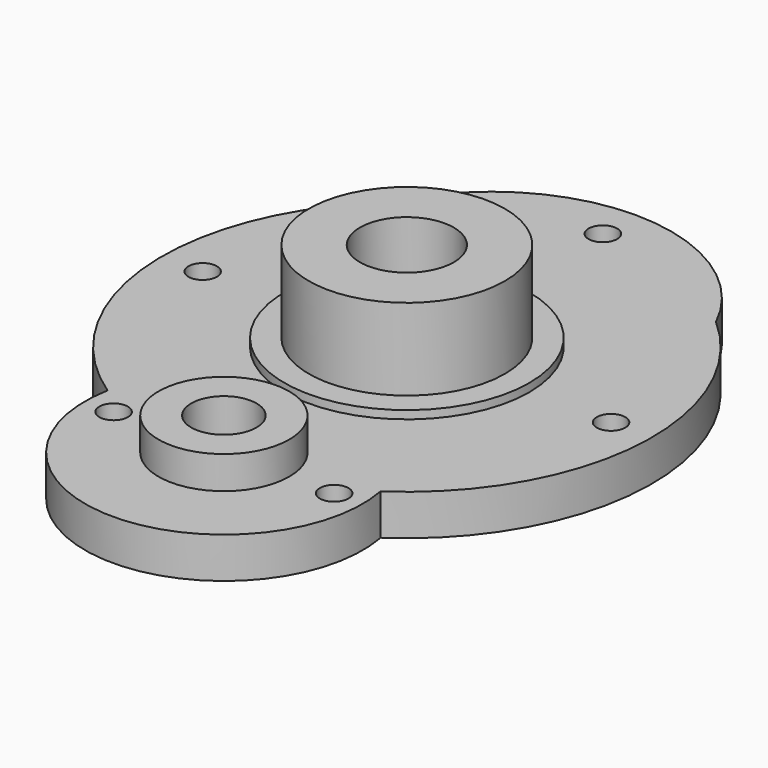
from build123d import *

# Parameters (mm, degrees)
F0_DEPTH  = 10
F17_R     = 30
F18_DEPTH = 12
F1_R      = 24
F2_DEPTH  = 20
F3_R      = 10
F4_DEPTH  = 25
F19_R     = 10
F5_DEPTH  = 30
F6_R      = 10
F7_DEPTH  = 30
F20_R     = 16
F8_DEPTH  = 8
F21_R     = 8
F9_DEPTH  = 25
F10_R     = 10
F11_DEPTH = 35
F12_R     = 11.5
F12_R_2   = 10
F13_DEPTH = 20
F14_R     = 3.5
F15_DEPTH = 10


with BuildPart() as f0:
    # F16 (on Top) → F0 (new body)
    with BuildSketch(Plane.XY):
        with BuildLine():
            ThreePointArc((39.686269666, 45), (0, 70), (-39.686269666, 45))
            ThreePointArc((-39.686269666, 45), (-59.8699875201, -3.9477328098), (-33.4338938071, -49.8214285714))
            ThreePointArc((-33.4338938071, -49.8214285714), (0, -90), (33.4338938071, -49.8214285714))
            ThreePointArc((33.4338938071, -49.8214285714), (59.8699875201, -3.9477328098), (39.686269666, 45))
        make_face()
    extrude(amount=F0_DEPTH)

    # F17 (on Top) → F18 (join)
    with BuildSketch(Plane.XY):
        Circle(F17_R)
    extrude(amount=F18_DEPTH)

    # F1 (on face) → F2 (join)
    with BuildSketch(Plane.XY.offset(12)):
        Circle(F1_R)
    extrude(amount=F2_DEPTH)

    # F3 (on face) → F4 (cut)
    with BuildSketch(Plane.XY.offset(32)):
        Circle(F3_R)
    extrude(amount=-F4_DEPTH, mode=Mode.SUBTRACT)

    # F19 (on face) → F5 (cut)
    with BuildSketch(Plane(origin=(0, 0, 0), x_dir=(1, 0, 0), z_dir=(0, 0, -1))):
        Circle(F19_R)
    extrude(amount=-F5_DEPTH, mode=Mode.SUBTRACT)

    # F6 (on face) → F7 (cut)
    with BuildSketch(Plane.XY.offset(32)):
        Circle(F6_R)
    extrude(amount=-F7_DEPTH, mode=Mode.SUBTRACT)

    # F20 (on face) → F8 (join)
    with BuildSketch(Plane.XY.offset(10)):
        with Locations((0, -56)):
            Circle(F20_R)
    extrude(amount=F8_DEPTH)

    # F21 (on face) → F9 (cut)
    with BuildSketch(Plane.XY.offset(18)):
        with Locations((0, -56)):
            Circle(F21_R)
    extrude(amount=-F9_DEPTH, mode=Mode.SUBTRACT)

    # F10 (on face) → F11 (cut)
    with BuildSketch(Plane.XY.offset(32)):
        Circle(F10_R)
    extrude(amount=-F11_DEPTH, mode=Mode.SUBTRACT)

    # F12 (on face) → F13 (cut)
    with BuildSketch(Plane.XY.offset(32)):
        Circle(F12_R)
        Circle(F12_R_2, mode=Mode.SUBTRACT)
    extrude(amount=-F13_DEPTH, mode=Mode.SUBTRACT)

    # F14 (on face) → F15 (cut)
    with BuildSketch(Plane.XY.offset(10)):
        with Locations((-27, -56)):
            Circle(F14_R)
        with Locations((27, -56)):
            Circle(F14_R)
        with Locations((-50, 0)):
            Circle(F14_R)
        with Locations((50, 0)):
            Circle(F14_R)
        with Locations((0, 60)):
            Circle(F14_R)
    extrude(amount=-F15_DEPTH, mode=Mode.SUBTRACT)


solid = f0.part
